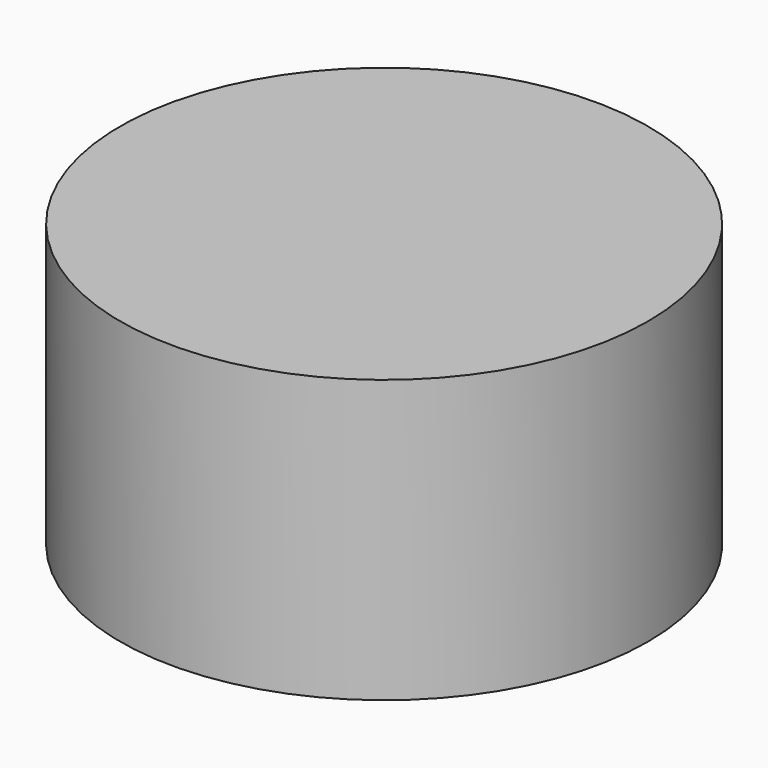
from build123d import *

# Parameters (mm, degrees)
PRISM015_DEPTH    = 1.1
CYLINDER070_R     = 2.34
CYLINDER070_DEPTH = 2.5


with BuildPart() as prism015:
    # Prism015 → Prism015 (new body)
    with BuildSketch(Plane.XY.offset(-23)):
        Polygon((1.1, 0), (0.55, 0.952628), (-0.55, 0.952628), (-1.1, 0), (-0.55, -0.952628), (0.55, -0.952628), align=None)
    extrude(amount=PRISM015_DEPTH)


with BuildPart() as cut061:
    # Cylinder070 → Cylinder070 (new body)
    with BuildSketch(Plane.XY.offset(-23)):
        Circle(CYLINDER070_R)
    extrude(amount=CYLINDER070_DEPTH)

    # Cut061: cut Prism015
    add(prism015.part, mode=Mode.SUBTRACT)


with BuildPart() as cut061_1:
    # Cut061 placement: moved
    add(cut061.part.moved(Location((0, 0, 0.5))))


solid = cut061_1.part
